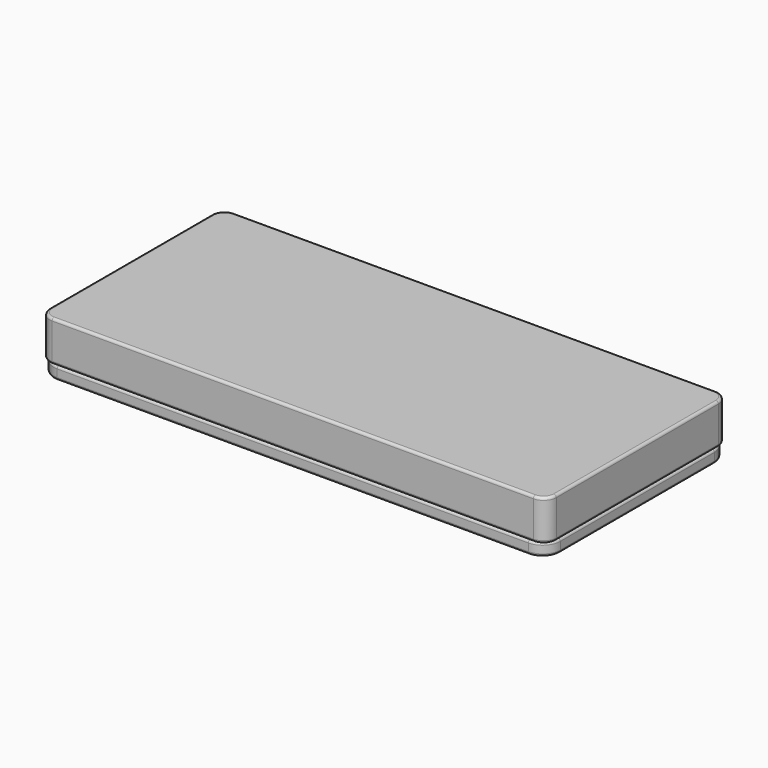
from build123d import *

# Parameters (mm, degrees)
F0_W     = 2000
F0_H     = 900
F1_DEPTH = 160
F2_R     = 50
F3_R     = 10
F5_DEPTH = 50
F7_R     = 10


with BuildPart() as f1:
    # F0 (on Top) → F1 (new body)
    with BuildSketch(Plane.XY):
        Rectangle(F0_W, F0_H)
    extrude(amount=F1_DEPTH)

    # F2
    f2_edges = [f1.edges().sort_by_distance(p)[0] for p in [
        (-1000, -450, 80),
        (1000, -450, 80),
        (1000, 450, 80),
        (-1000, 450, 80),
    ]]
    fillet(f2_edges, radius=F2_R)

    # F3
    f3_edges = [f1.edges().sort_by_distance(p)[0] for p in [
        (0, 450, 160),
        (985.355339, 435.355339, 160),
        (-985.355339, 435.355339, 160),
        (1000, 0, 160),
        (-1000, 0, 160),
        (985.355339, -435.355339, 160),
        (-985.355339, -435.355339, 160),
        (0, -450, 160),
        (0, 450, 0),
        (985.355339, 435.355339, 0),
        (-985.355339, 435.355339, 0),
        (1000, 0, 0),
        (-1000, 0, 0),
        (985.355339, -435.355339, 0),
        (-985.355339, -435.355339, 0),
        (0, -450, 0),
    ]]
    fillet(f3_edges, radius=F3_R)


with BuildPart() as f5:
    # F4 (on Top) → F5 (new body)
    with BuildSketch(Plane.XY):
        with BuildLine():
            ThreePointArc((1000, 380), (979.4974746831, 429.4974746831), (930, 450))
            Line((930, 450), (-930, 450))
            ThreePointArc((-930, 450), (-979.4974746831, 429.4974746831), (-1000, 380))
            Line((-1000, 380), (-1000, -380))
            ThreePointArc((-1000, -380), (-979.4974746831, -429.4974746831), (-930, -450))
            Line((-930, -450), (930, -450))
            ThreePointArc((930, -450), (979.4974746831, -429.4974746831), (1000, -380))
            Line((1000, -380), (1000, 380))
        make_face()
        with BuildLine():
            Line((-930, 420), (930, 420))
            ThreePointArc((930, 420), (958.2842712475, 408.2842712475), (970, 380))
            Line((970, 380), (970, -380))
            ThreePointArc((970, -380), (958.2842712475, -408.2842712475), (930, -420))
            Line((930, -420), (-930, -420))
            ThreePointArc((-930, -420), (-958.2842712475, -408.2842712475), (-970, -380))
            Line((-970, -380), (-970, 380))
            ThreePointArc((-970, 380), (-958.2842712475, 408.2842712475), (-930, 420))
        make_face(mode=Mode.SUBTRACT)
    extrude(amount=F5_DEPTH)

    # F7
    f7_edges = [f5.edges().sort_by_distance(p)[0] for p in [
        (979.497475, 429.497475, 50),
        (0, 450, 50),
        (-979.497475, 429.497475, 50),
        (-1000, 0, 50),
        (-979.497475, -429.497475, 50),
        (0, -450, 50),
        (979.497475, -429.497475, 50),
        (1000, 0, 50),
        (0, 420, 50),
        (958.284271, 408.284271, 50),
        (970, 0, 50),
        (958.284271, -408.284271, 50),
        (0, -420, 50),
        (-958.284271, -408.284271, 50),
        (-970, 0, 50),
        (-958.284271, 408.284271, 50),
        (979.497475, 429.497475, 0),
        (0, 450, 0),
        (-979.497475, 429.497475, 0),
        (-1000, 0, 0),
        (-979.497475, -429.497475, 0),
        (0, -450, 0),
        (979.497475, -429.497475, 0),
        (1000, 0, 0),
        (0, 420, 0),
        (958.284271, 408.284271, 0),
        (970, 0, 0),
        (958.284271, -408.284271, 0),
        (0, -420, 0),
        (-958.284271, -408.284271, 0),
        (-970, 0, 0),
        (-958.284271, 408.284271, 0),
    ]]
    fillet(f7_edges, radius=F7_R)


with BuildPart() as f1_1:
    # F6: moved
    add(f1.part.moved(Location((0, 0, 50))))


solid = Compound([f5.part, f1_1.part])
